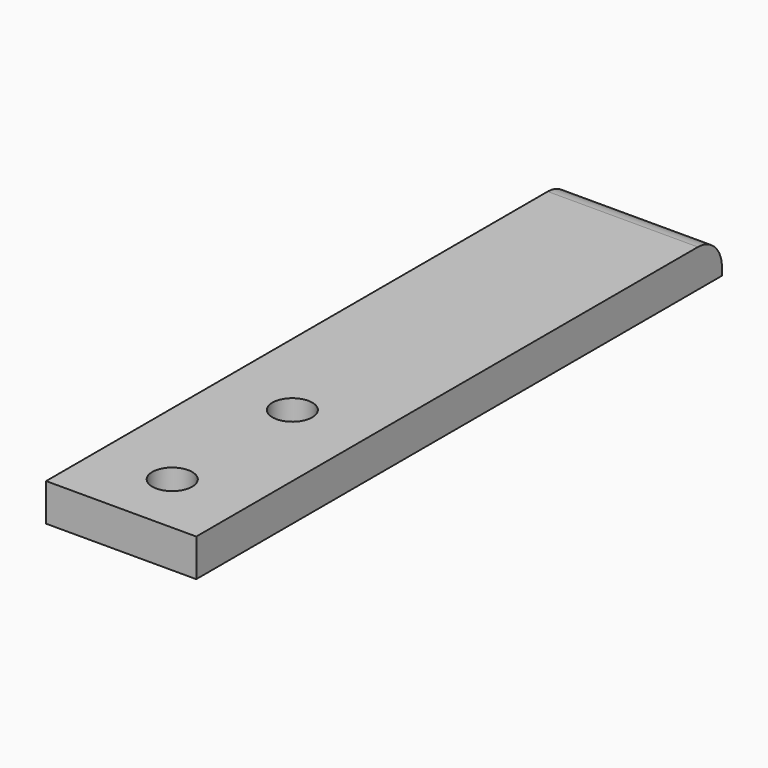
from build123d import *

# Parameters (mm, degrees)
F0_W     = 25.4
F0_H     = 111.125
F0_R     = 3.3782
F0_R_2   = 3.373438
F1_DEPTH = 6.35
F2_R     = 5.08


with BuildPart() as f1:
    # F0 (on Top) → F1 (new body)
    with BuildSketch(Plane.XY):
        with Locations((12.7, 55.5625)):
            Rectangle(F0_W, F0_H)
        with Locations((12.7, 10.795)):
            Circle(F0_R, mode=Mode.SUBTRACT)
        with Locations((12.7, 36.195)):
            Circle(F0_R_2, mode=Mode.SUBTRACT)
    extrude(amount=F1_DEPTH)

    # F2
    f2_edges = [f1.edges().sort_by_distance(p)[0] for p in [
        (12.7, 111.125, 6.35),
    ]]
    fillet(f2_edges, radius=F2_R)


solid = f1.part
